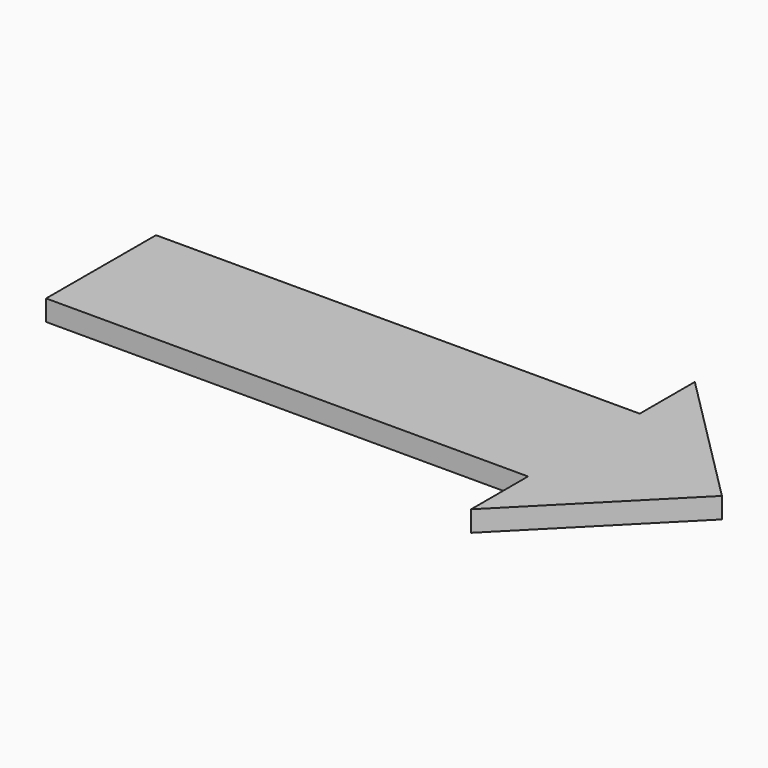
from build123d import *

# Parameters (mm, degrees)
PAD_DEPTH = 3


with BuildPart() as part:
    # Sketch → Pad (new body)
    with BuildSketch(Plane.XY):
        Polygon((-29.931509, 9.863013), (40.059757, 9.900582), (40.068489, 19.863016), (59.893887, -0.016484), (39.799191, -20.289412), (39.799191, -9.989797), (-29.967548, -9.989797), align=None)
    extrude(amount=PAD_DEPTH)


solid = part.part
